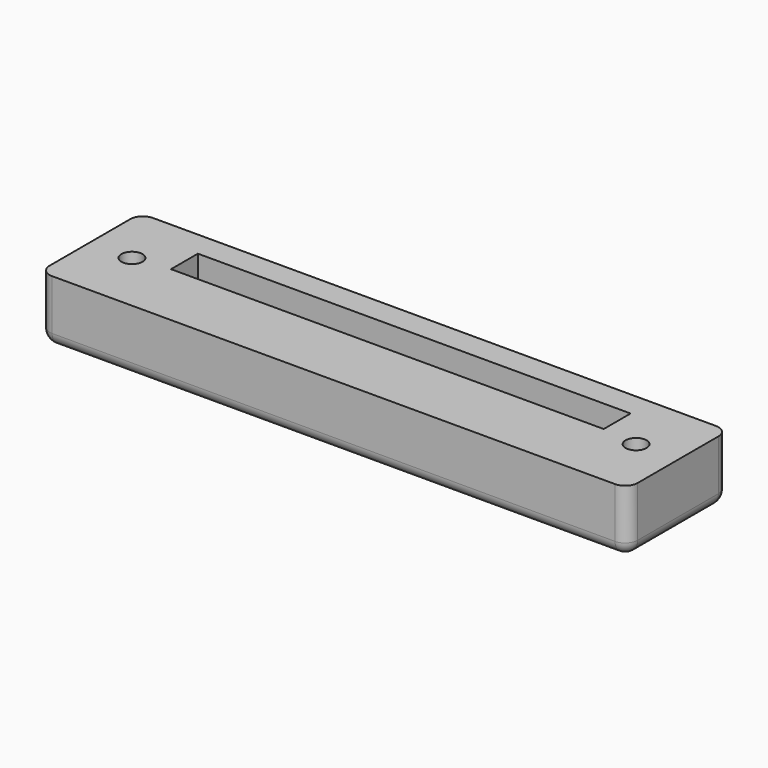
from build123d import *

# Parameters (mm, degrees)
F1_DEPTH       = 15
F2_R           = 3
F3_W           = 103
F3_H           = 8
F4_DEPTH       = 12
F5_W           = 103
F5_H           = 3
F6_DEPTH       = 3
F8_D           = 5
F8_CSINK_D     = 8
F8_CSINK_ANGLE = 90


with BuildPart() as f1:
    # F0 (on Top) → F1 (new body)
    with BuildSketch(Plane.XY):
        with BuildLine():
            Line((-67, -20), (67, -20))
            ThreePointArc((67, -20), (69.1213203436, -19.1213203436), (70, -17))
            Line((70, -17), (70, 7))
            ThreePointArc((70, 7), (69.1213203436, 9.1213203436), (67, 10))
            Line((67, 10), (-67, 10))
            ThreePointArc((-67, 10), (-69.1213203436, 9.1213203436), (-70, 7))
            Line((-70, 7), (-70, -17))
            ThreePointArc((-70, -17), (-69.1213203436, -19.1213203436), (-67, -20))
        make_face()
    extrude(amount=F1_DEPTH)

    # F2
    f2_edges = [f1.edges().sort_by_distance(p)[0] for p in [
        (0, -20, 0),
        (69.12132, -19.12132, 0),
        (70, -5, 0),
        (69.12132, 9.12132, 0),
        (0, 10, 0),
        (-69.12132, 9.12132, 0),
        (-70, -5, 0),
        (-69.12132, -19.12132, 0),
    ]]
    fillet(f2_edges, radius=F2_R)

    # F3 (on face) → F4 (cut)
    with BuildSketch(Plane.XY.offset(15)):
        Rectangle(F3_W, F3_H)
        Rectangle(F3_W, F3_H)
    extrude(amount=-F4_DEPTH, mode=Mode.SUBTRACT)

    # F5 (on face) → F6 (cut)
    with BuildSketch(Plane(origin=(0, 0, 0), x_dir=(1, 0, 0), z_dir=(0, 0, -1))):
        with Locations((0, 3.5)):
            Rectangle(F5_W, F5_H)
        with Locations((0, -3.5)):
            Rectangle(F5_W, F5_H)
    extrude(amount=-F6_DEPTH, mode=Mode.SUBTRACT)

    # F8 (through all)
    with Locations(Plane(origin=(0, 0, 0), x_dir=(1, 0, 0), z_dir=(0, 0, -1))):
        with Locations((-60, 5), (60, 5)):
            CounterSinkHole(F8_D / 2, F8_CSINK_D / 2, counter_sink_angle=F8_CSINK_ANGLE)


solid = f1.part
